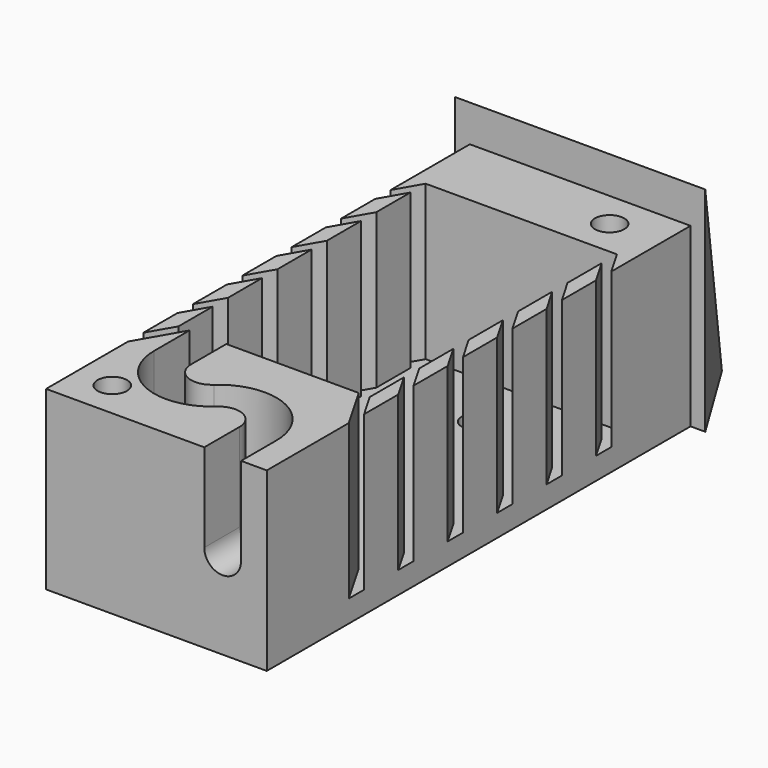
from build123d import *

# Parameters (mm, degrees)
SKETCH_W                        = 30
SKETCH_H                        = 72
SKETCH_R                        = 1.75
PAD_DEPTH                       = 24
SKETCH001_W                     = 26
SKETCH001_H                     = 42
POCKET_DEPTH                    = 21
POCKET001_DEPTH                 = 21
POCKET001_LINEARPATTERN_2_DEPTH = 21
POCKET001_LINEARPATTERN_3_DEPTH = 21
POCKET001_LINEARPATTERN_4_DEPTH = 21
POCKET001_LINEARPATTERN_5_DEPTH = 21
POCKET001_LINEARPATTERN_6_DEPTH = 21
SKETCH005_R                     = 2
POCKET002_DEPTH                 = 7.5
PAD003_DEPTH                    = 17
PAD003_DEPTH_BACK               = 17
POCKET004_DEPTH                 = 29.001


with BuildPart() as part:
    # Sketch → Pad (new body)
    with BuildSketch(Plane.XY):
        Rectangle(SKETCH_W, SKETCH_H)
        with Locations((0, 18)):
            Circle(SKETCH_R, mode=Mode.SUBTRACT)
        with Locations((0, -8)):
            Circle(SKETCH_R, mode=Mode.SUBTRACT)
    extrude(amount=PAD_DEPTH)

    # Sketch001 → Pocket (cut)
    with BuildSketch(Plane.XY.offset(24)):
        with Locations((0, 5)):
            Rectangle(SKETCH001_W, SKETCH001_H)
    extrude(amount=-POCKET_DEPTH, mode=Mode.SUBTRACT)

    # Sketch002 → Pocket001 (cut)
    with BuildSketch(Plane.XY.offset(24)):
        Polygon((-18.773503, 16), (-13, 26), (-11.5, 26), (-17.273503, 16), align=None)
    pocket001 = extrude(amount=-POCKET001_DEPTH, mode=Mode.SUBTRACT)

    # Sketch002 LinearPattern 2 → Pocket001 LinearPattern 2 (cut)
    with BuildSketch(Plane(origin=(0, -8.4, 24), x_dir=(1, 0, 0), z_dir=(0, 0, 1))):
        Polygon((-18.773503, 16), (-13, 26), (-11.5, 26), (-17.273503, 16), align=None)
    pocket001_linearpattern_2 = extrude(amount=-POCKET001_LINEARPATTERN_2_DEPTH, mode=Mode.SUBTRACT)

    # Sketch002 LinearPattern 3 → Pocket001 LinearPattern 3 (cut)
    with BuildSketch(Plane(origin=(0, -16.8, 24), x_dir=(1, 0, 0), z_dir=(0, 0, 1))):
        Polygon((-18.773503, 16), (-13, 26), (-11.5, 26), (-17.273503, 16), align=None)
    pocket001_linearpattern_3 = extrude(amount=-POCKET001_LINEARPATTERN_3_DEPTH, mode=Mode.SUBTRACT)

    # Sketch002 LinearPattern 4 → Pocket001 LinearPattern 4 (cut)
    with BuildSketch(Plane(origin=(0, -25.2, 24), x_dir=(1, 0, 0), z_dir=(0, 0, 1))):
        Polygon((-18.773503, 16), (-13, 26), (-11.5, 26), (-17.273503, 16), align=None)
    pocket001_linearpattern_4 = extrude(amount=-POCKET001_LINEARPATTERN_4_DEPTH, mode=Mode.SUBTRACT)

    # Sketch002 LinearPattern 5 → Pocket001 LinearPattern 5 (cut)
    with BuildSketch(Plane(origin=(0, -33.6, 24), x_dir=(1, 0, 0), z_dir=(0, 0, 1))):
        Polygon((-18.773503, 16), (-13, 26), (-11.5, 26), (-17.273503, 16), align=None)
    pocket001_linearpattern_5 = extrude(amount=-POCKET001_LINEARPATTERN_5_DEPTH, mode=Mode.SUBTRACT)

    # Sketch002 LinearPattern 6 → Pocket001 LinearPattern 6 (cut)
    with BuildSketch(Plane(origin=(0, -42, 24), x_dir=(1, 0, 0), z_dir=(0, 0, 1))):
        Polygon((-18.773503, 16), (-13, 26), (-11.5, 26), (-17.273503, 16), align=None)
    pocket001_linearpattern_6 = extrude(amount=-POCKET001_LINEARPATTERN_6_DEPTH, mode=Mode.SUBTRACT)

    # Mirrored: Pocket001, Pocket001 LinearPattern 2, Pocket001 LinearPattern 3, Pocket001 LinearPattern 4, Pocket001 LinearPattern 5, Pocket001 LinearPattern 6 across Sketch002 V_Axis
    add(pocket001.mirror(Plane(origin=(0, 0, 24), x_dir=(0, 0, 1), z_dir=(1, 0, 0))), mode=Mode.SUBTRACT)
    add(pocket001_linearpattern_2.mirror(Plane(origin=(0, 0, 24), x_dir=(0, 0, 1), z_dir=(1, 0, 0))), mode=Mode.SUBTRACT)
    add(pocket001_linearpattern_3.mirror(Plane(origin=(0, 0, 24), x_dir=(0, 0, 1), z_dir=(1, 0, 0))), mode=Mode.SUBTRACT)
    add(pocket001_linearpattern_4.mirror(Plane(origin=(0, 0, 24), x_dir=(0, 0, 1), z_dir=(1, 0, 0))), mode=Mode.SUBTRACT)
    add(pocket001_linearpattern_5.mirror(Plane(origin=(0, 0, 24), x_dir=(0, 0, 1), z_dir=(1, 0, 0))), mode=Mode.SUBTRACT)
    add(pocket001_linearpattern_6.mirror(Plane(origin=(0, 0, 24), x_dir=(0, 0, 1), z_dir=(1, 0, 0))), mode=Mode.SUBTRACT)

    # SubtractivePipe: sweep along a path in Sketch003
    with BuildLine(Plane.XY.offset(24)) as subtractivepipe_path:
        Line((-9, -16), (-9, -22))
        ThreePointArc((-9, -22), (-5.799746, -26.924429), (0, -26))
        ThreePointArc((0, -26), (5.799746, -25.075571), (9, -30))
        Line((9, -30), (9, -36))
    # Sketch004 → SubtractivePipe (sweep, cut)
    with BuildSketch(Plane.XZ.offset(36)):
        with BuildLine():
            Line((6.5, 24), (6.5, 12))
            ThreePointArc((6.5, 12), (9, 9.5), (11.5, 12))
            Line((11.5, 12), (11.5, 24))
            Line((11.5, 24), (6.5, 24))
        make_face()
    sweep(path=subtractivepipe_path.line, mode=Mode.SUBTRACT)

    # Sketch005 → Pocket002 (cut)
    with BuildSketch(Plane.XY.offset(24)):
        with Locations((-10, -31)):
            Circle(SKETCH005_R)
        with Locations((8, 31)):
            Circle(SKETCH005_R)
    extrude(amount=-POCKET002_DEPTH, mode=Mode.SUBTRACT)

    # Sketch010 → Pad003 (join, two sides)
    with BuildSketch(Plane(origin=(0, 36, 0), x_dir=(0, 1, 0), z_dir=(1, 0, 0))) as pad003_sk:
        Polygon((0, 0), (0, 29), (12, 0), align=None)
    extrude(amount=PAD003_DEPTH)
    extrude(pad003_sk.sketch, amount=-PAD003_DEPTH_BACK)

    # Sketch011 → Pocket004 (cut, through all)
    with BuildSketch(Plane.XY):
        Polygon((-17, 36), (-6, 54), (6, 54), (17, 36), (17, 56), (-17, 56), align=None)
    extrude(amount=POCKET004_DEPTH, mode=Mode.SUBTRACT)


solid = part.part
